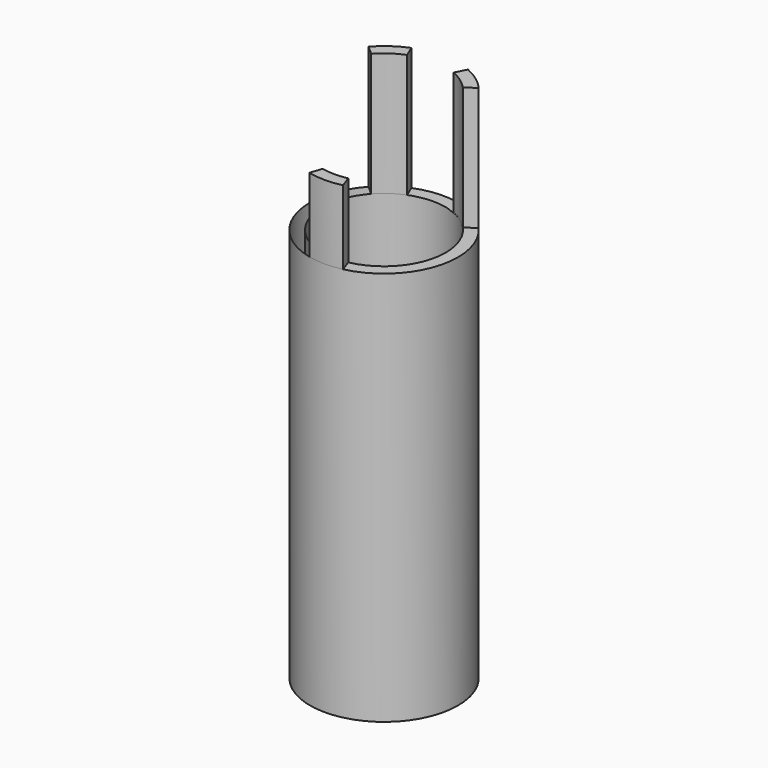
from build123d import *

# Parameters (mm, degrees)
F0_R     = 38.1
F0_R_2   = 31.75
F1_DEPTH = 203.2
F3_DEPTH = 63.5
F4_DEPTH = 38.1


with BuildPart() as f1:
    # F0 (on Top) → F1 (new body)
    with BuildSketch(Plane.XY):
        Circle(F0_R)
        Circle(F0_R_2, mode=Mode.SUBTRACT)
    extrude(amount=F1_DEPTH)

    # F2 (on face) → F3 (join)
    with BuildSketch(Plane.XY.offset(203.2)):
        with BuildLine():
            Line((-28.31654, 25.490853), (-23.61712, 21.220136))
            ThreePointArc((-23.61712, 21.220136), (-18.155271, 26.047046), (-11.736533, 29.501124))
            Line((-11.736533, 29.501124), (-14.210807, 35.350572))
            ThreePointArc((-14.210807, 35.350572), (-21.827674, 31.227595), (-28.31654, 25.490853))
        make_face()
        with BuildLine():
            Line((15.397165, 34.850213), (12.421334, 29.219394))
            ThreePointArc((12.421334, 29.219394), (18.293267, 25.950316), (23.345566, 21.518528))
            Line((23.345566, 21.518528), (28.801051, 24.942122))
            ThreePointArc((28.801051, 24.942122), (22.647585, 30.63816), (15.397165, 34.850213))
        make_face()
    extrude(amount=F3_DEPTH)

    # F2 (on face) → F4 (join)
    with BuildSketch(Plane.XY.offset(203.2)):
        with BuildLine():
            ThreePointArc((6.457115, -31.086463), (-0.152879, -31.749632), (-6.756181, -31.022839))
            Line((-6.756181, -31.022839), (-8.817227, -37.065705))
            ThreePointArc((-8.817227, -37.065705), (-0.128735, -38.099783), (8.566548, -37.124443))
            Line((8.566548, -37.124443), (6.457115, -31.086463))
        make_face()
    extrude(amount=F4_DEPTH)


solid = f1.part
